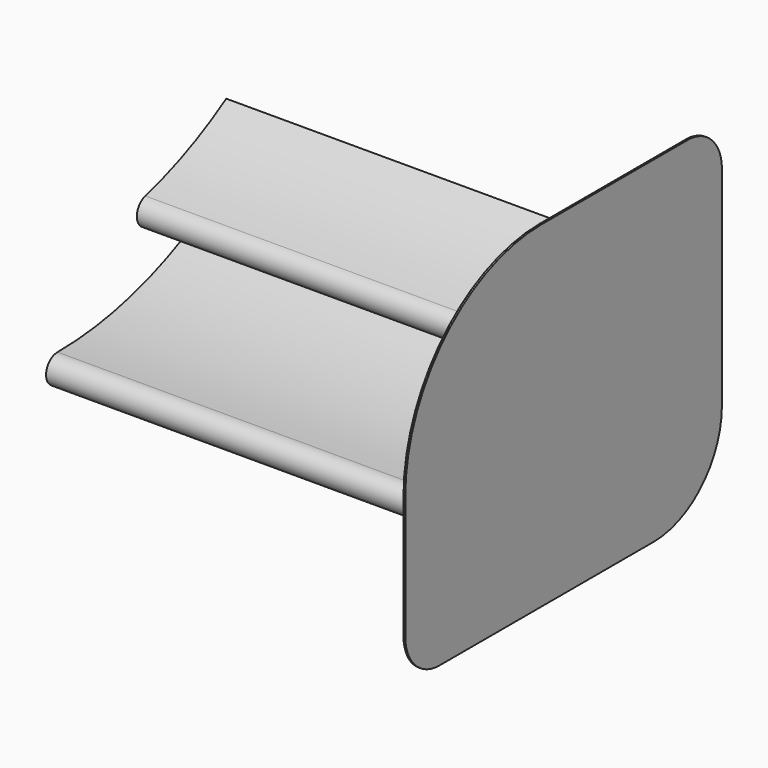
from build123d import *

# Parameters (mm, degrees)
F1_DEPTH = 762
F3_DEPTH = 762
F4_W     = 707.107375
F4_H     = 601.085796
F5_DEPTH = 1.5875
F6_R     = 304.8
F7_R     = 76.2
F8_R     = 152.4


with BuildPart() as f1:
    # F0 (on Right) → F1 (new body)
    with BuildSketch(Plane.YZ):
        with BuildLine():
            ThreePointArc((0, -347.440392), (-25.4, -372.840392), (0, -398.240392))
            ThreePointArc((0, -398.240392), (152.4, -367.926147), (281.598482, -281.598482))
            ThreePointArc((281.598482, -281.598482), (144.596734, -330.76089), (0, -347.440392))
        make_face()
    extrude(amount=F1_DEPTH)



with BuildPart() as f3:
    # F2 (on Right) → F3 (new body)
    with BuildSketch(Plane.YZ):
        with BuildLine():
            ThreePointArc((196.133325, -181.509551), (178.172813, -212.61807), (209.281333, -230.578583))
            ThreePointArc((209.281333, -230.578583), (305.886805, -182.938036), (376.907375, -101.954596))
            ThreePointArc((376.907375, -101.954596), (289.564758, -148.649932), (196.133325, -181.509551))
        make_face()
    extrude(amount=F3_DEPTH)


with BuildPart() as f1_1:
    add(f1.part)

    add(f3.part)  # F5 merges F3
    # F4 (on face) → F5 (join, symmetric)
    with BuildSketch(Plane.YZ.offset(762)):
        with Locations((175.753688, -250.097494)):
            Rectangle(F4_W, F4_H)
        with BuildLine():
            ThreePointArc((0, -347.440392), (144.596734, -330.76089), (281.598482, -281.598482))
            ThreePointArc((281.598482, -281.598482), (152.4, -367.926147), (0, -398.240392))
            ThreePointArc((0, -398.240392), (-25.4, -372.840392), (0, -347.440392))
        make_face(mode=Mode.SUBTRACT)
        with BuildLine():
            ThreePointArc((0, -398.240392), (152.4, -367.926147), (281.598482, -281.598482))
            ThreePointArc((281.598482, -281.598482), (144.596734, -330.76089), (0, -347.440392))
            ThreePointArc((0, -347.440392), (-25.4, -372.840392), (0, -398.240392))
        make_face()
    extrude(amount=F5_DEPTH, both=True)

    # F6
    f6_edges = [f1_1.edges().sort_by_distance(p)[0] for p in [
        (762, -177.8, 50.445404),
    ]]
    fillet(f6_edges, radius=F6_R)

    # F7
    f7_edges = [f1_1.edges().sort_by_distance(p)[0] for p in [
        (762, -177.8, -550.640392),
        (762, 529.307375, 50.445404),
    ]]
    fillet(f7_edges, radius=F7_R)

    # F8
    f8_edges = [f1_1.edges().sort_by_distance(p)[0] for p in [
        (762, 529.307375, -550.640392),
    ]]
    fillet(f8_edges, radius=F8_R)


solid = f1_1.part
